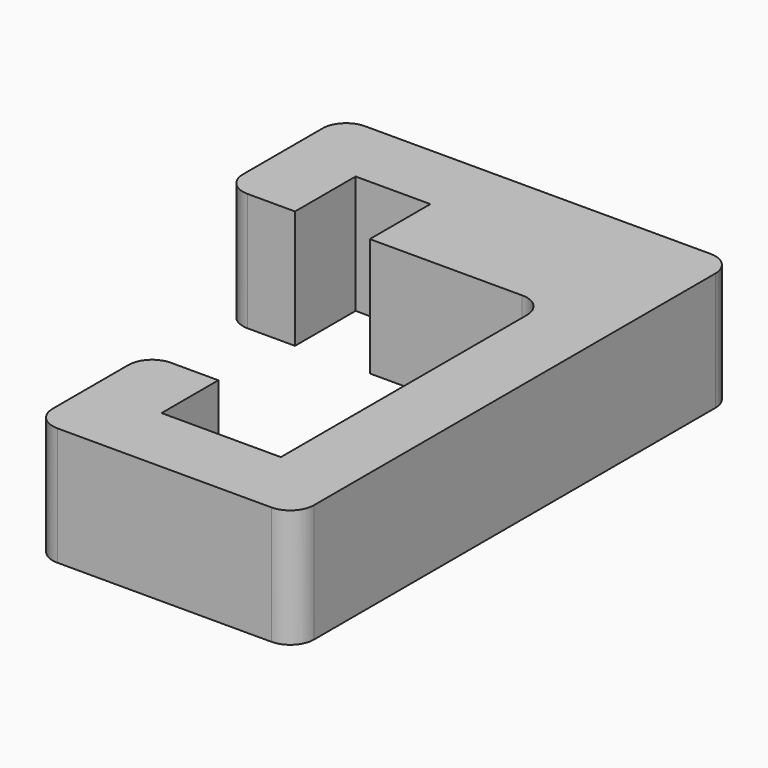
from build123d import *

# Parameters (mm, degrees)
F1_DEPTH = 25


with BuildPart() as f1:
    # F0 (on Top) → F1 (new body)
    with BuildSketch(Plane.XY):
        with BuildLine():
            Line((-63, 35), (-53, 35))
            Line((-53, 35), (-53, 51))
            Line((-53, 51), (-37.2, 51))
            Line((-37.2, 51), (-37.2, 35))
            Line((-37.2, 35), (-5, 35))
            ThreePointArc((-5, 35), (-1.464466, 33.535534), (0, 30))
            Line((0, 30), (0, -35))
            Line((0, -35), (-25.2, -35))
            Line((-25.2, -35), (-25.2, -20))
            Line((-25.2, -20), (-35.2, -20))
            ThreePointArc((-35.2, -20), (-38.735534, -21.464466), (-40.2, -25))
            Line((-40.2, -25), (-40.2, -45))
            ThreePointArc((-40.2, -45), (-38.735534, -48.535534), (-35.2, -50))
            Line((-35.2, -50), (10, -50))
            ThreePointArc((10, -50), (13.535534, -48.535534), (15, -45))
            Line((15, -45), (15, 61))
            ThreePointArc((15, 61), (13.535534, 64.535534), (10, 66))
            Line((10, 66), (-63, 66))
            ThreePointArc((-63, 66), (-66.535534, 64.535534), (-68, 61))
            Line((-68, 61), (-68, 40))
            ThreePointArc((-68, 40), (-66.535534, 36.464466), (-63, 35))
        make_face()
    extrude(amount=F1_DEPTH)


solid = f1.part
